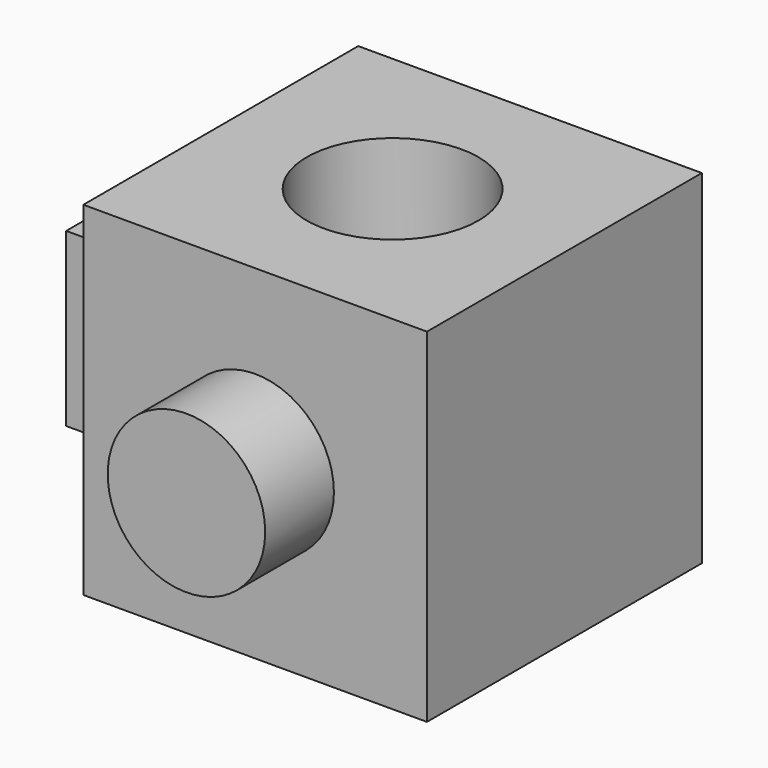
from build123d import *

# Parameters (mm, degrees)
F0_W     = 50.8
F0_H     = 50.8
F1_DEPTH = 50.8
F2_W     = 25.4
F2_H     = 25.4
F3_DEPTH = 12.7
F4_R     = 11.643454
F5_DEPTH = 12.7
F6_R     = 12.7
F7_DEPTH = 50.8


with BuildPart() as f1:
    # F0 (on Top) → F1 (new body)
    with BuildSketch(Plane.XY):
        with Locations((-7.157771, 44.399988)):
            Rectangle(F0_W, F0_H)
    extrude(amount=F1_DEPTH)

    # F2 (on face) → F3 (join)
    with BuildSketch(Plane(origin=(-32.557771, 0, 0), x_dir=(0, -1, 0), z_dir=(-1, 0, 0))):
        with Locations((-44.399988, 25.401516)):
            Rectangle(F2_W, F2_H)
    extrude(amount=F3_DEPTH)

    # F4 (on face) → F5 (join)
    with BuildSketch(Plane.XZ.offset(-18.999988)):
        with Locations((-7.157771, 25.4)):
            Circle(F4_R)
    extrude(amount=F5_DEPTH)

    # F6 (on face) → F7 (cut)
    with BuildSketch(Plane.XY.offset(50.8)):
        with Locations((-7.157771, 44.399988)):
            Circle(F6_R)
    extrude(amount=-F7_DEPTH, mode=Mode.SUBTRACT)


solid = f1.part
